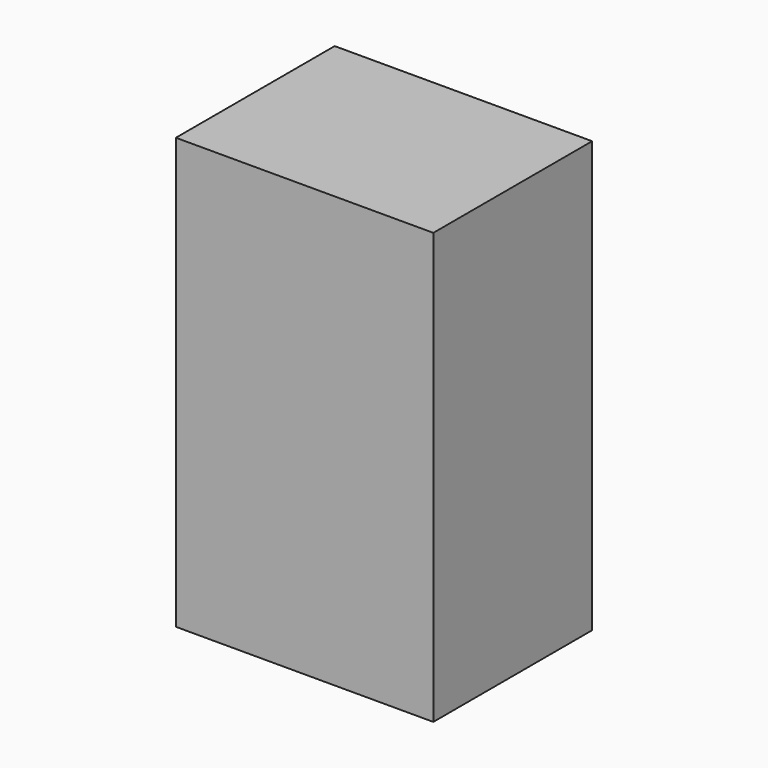
from build123d import *

# Parameters (mm, degrees)
F0_W     = 32.945309
F0_H     = 55.096016
F1_DEPTH = 25.4
F2_DEPTH = 25.4


with BuildPart() as f1:
    # F0 (on Front) → F1 (new body)
    with BuildSketch(Plane.XZ):
        with Locations((9.911088, -6.168112)):
            Rectangle(F0_W, F0_H)
        with Locations((9.911088, -6.168112)):
            Rectangle(F0_W, F0_H)
    extrude(amount=F1_DEPTH)

    # F0 (on Front) → F2 (join)
    with BuildSketch(Plane.XZ):
        with Locations((9.911088, -6.168112)):
            Rectangle(F0_W, F0_H)
        with Locations((9.911088, -6.168112)):
            Rectangle(F0_W, F0_H)
        with Locations((9.911088, -6.168112)):
            Rectangle(F0_W, F0_H)
        with Locations((9.911088, -6.168112)):
            Rectangle(F0_W, F0_H)
    extrude(amount=F2_DEPTH)


solid = f1.part
